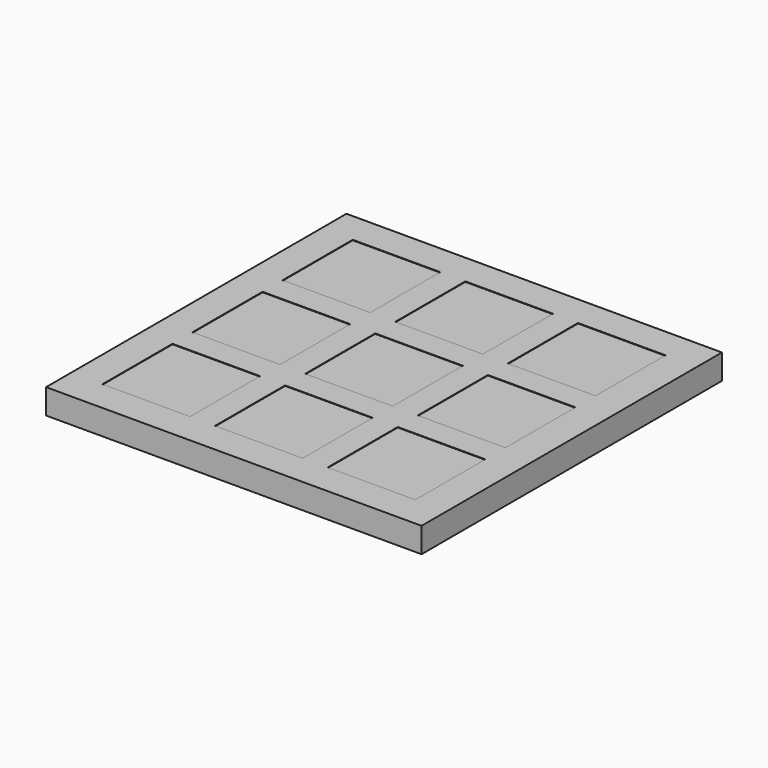
from build123d import *

# Parameters (mm, degrees)
F0_W     = 150
F0_H     = 150
F0_W_2   = 35
F0_H_2   = 35
F1_DEPTH = 10
F2_DEPTH = 9.8


with BuildPart() as f1:
    # F0 (on Top) → F1 (new body)
    with BuildSketch(Plane.XY):
        Rectangle(F0_W, F0_H)
        with Locations((-45, -45)):
            Rectangle(F0_W_2, F0_H_2, mode=Mode.SUBTRACT)
        with Locations((0, -45)):
            Rectangle(F0_W_2, F0_H_2, mode=Mode.SUBTRACT)
        with Locations((45, -45)):
            Rectangle(F0_W_2, F0_H_2, mode=Mode.SUBTRACT)
        with Locations((-45, 0)):
            Rectangle(F0_W_2, F0_H_2, mode=Mode.SUBTRACT)
        with Locations((-45, 45)):
            Rectangle(F0_W_2, F0_H_2, mode=Mode.SUBTRACT)
        Rectangle(F0_W_2, F0_H_2, mode=Mode.SUBTRACT)
        with Locations((45, 0)):
            Rectangle(F0_W_2, F0_H_2, mode=Mode.SUBTRACT)
        with Locations((0, 45)):
            Rectangle(F0_W_2, F0_H_2, mode=Mode.SUBTRACT)
        with Locations((45, 45)):
            Rectangle(F0_W_2, F0_H_2, mode=Mode.SUBTRACT)
    extrude(amount=F1_DEPTH)

    # F0 (on Top) → F2 (join)
    with BuildSketch(Plane.XY):
        with Locations((-45, 45)):
            Rectangle(F0_W_2, F0_H_2)
        with Locations((-45, 0)):
            Rectangle(F0_W_2, F0_H_2)
        with Locations((-45, -45)):
            Rectangle(F0_W_2, F0_H_2)
        with Locations((0, -45)):
            Rectangle(F0_W_2, F0_H_2)
        Rectangle(F0_W_2, F0_H_2)
        with Locations((0, 45)):
            Rectangle(F0_W_2, F0_H_2)
        with Locations((45, 45)):
            Rectangle(F0_W_2, F0_H_2)
        with Locations((45, 0)):
            Rectangle(F0_W_2, F0_H_2)
        with Locations((45, -45)):
            Rectangle(F0_W_2, F0_H_2)
    extrude(amount=F2_DEPTH)


solid = f1.part
